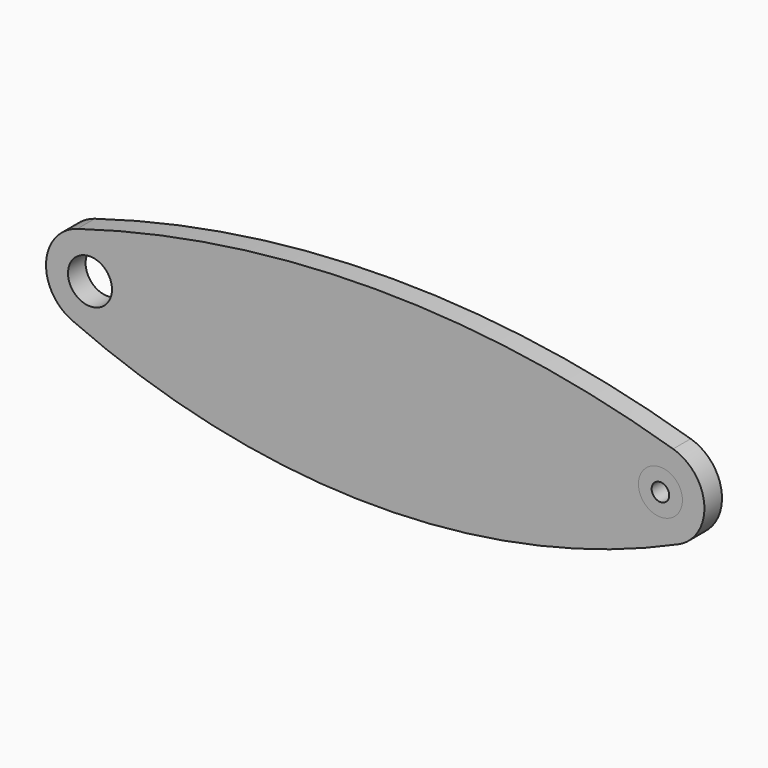
from build123d import *

# Parameters (mm, degrees)
F0_R     = 5
F0_R_2   = 2
F1_DEPTH = 5
F2_DEPTH = 5


with BuildPart() as f1:
    # F0 (on Front) → F1 (new body)
    with BuildSketch(Plane.XZ):
        with Locations((64.8555, 0)):
            Circle(F0_R)
        with Locations((64.8555, 0)):
            Circle(F0_R_2, mode=Mode.SUBTRACT)
    extrude(amount=F1_DEPTH)


with BuildPart() as f2:
    # F0 (on Front) → F2 (new body)
    with BuildSketch(Plane.XZ):
        with BuildLine():
            ThreePointArc((-67.742338, 9.574245), (-74.834969, 0.640469), (-68.942537, -9.126671))
            ThreePointArc((-68.942537, -9.126671), (0, -23.858493), (68.942537, -9.126671))
            ThreePointArc((68.942537, -9.126671), (74.834969, 0.640469), (67.742338, 9.574245))
            ThreePointArc((67.742338, 9.574245), (0, 19.564984), (-67.742338, 9.574245))
        make_face()
        with Locations((-64.8555, 0)):
            Circle(F0_R, mode=Mode.SUBTRACT)
        with Locations((64.8555, 0)):
            Circle(F0_R, mode=Mode.SUBTRACT)
    extrude(amount=F2_DEPTH)


solid = Compound([f1.part, f2.part])
